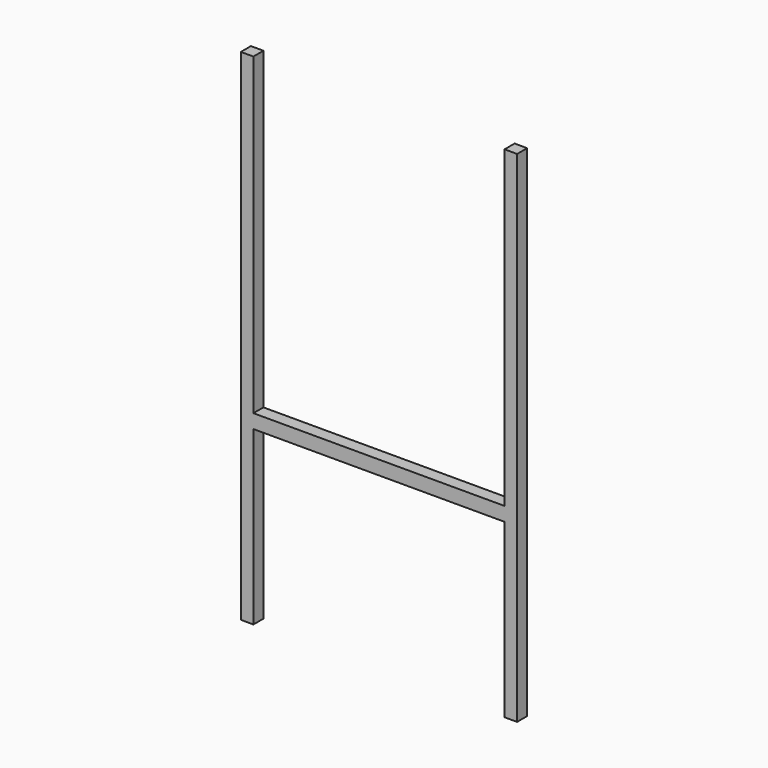
from build123d import *

# Parameters (mm, degrees)
F1_DEPTH = 40


with BuildPart() as f1:
    # F0 (on Front) → F1 (new body)
    with BuildSketch(Plane.XZ):
        Polygon((0, -44.541744), (0, 0), (-400, 0), (-400, 1000), (-440, 1000), (-440, 0), (-440, -592.545841), (-400, -592.545841), (-400, -44.541744), align=None)
        Polygon((400, 0), (0, 0), (0, -44.541744), (400, -44.541744), (400, -592.545841), (440, -592.545841), (440, 0), (440, 1000), (400, 1000), align=None)
    extrude(amount=F1_DEPTH)


solid = f1.part
